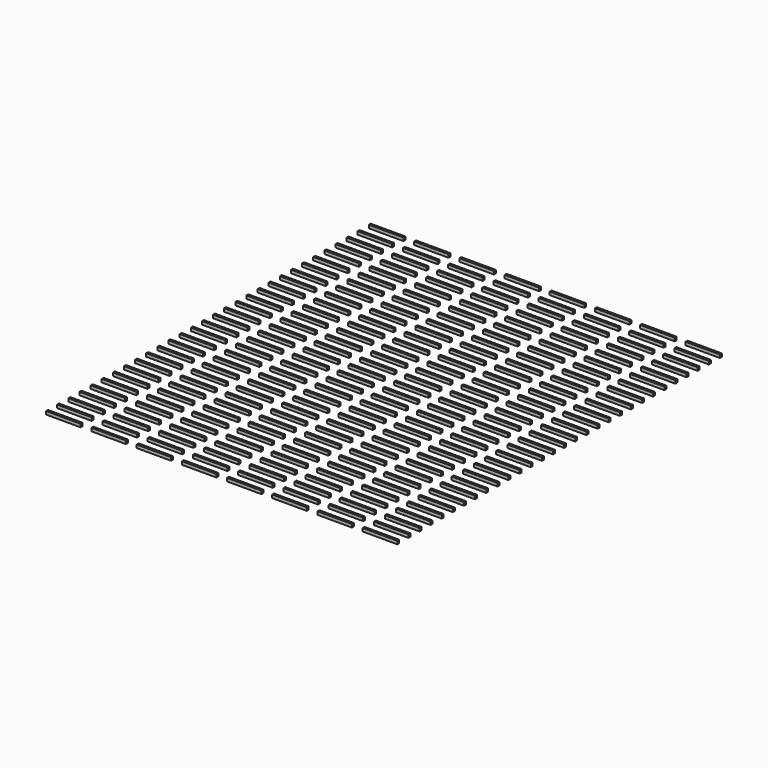
from build123d import *

# Parameters (mm, degrees)
F0_W     = 97.79
F0_H     = 6.858
F1_DEPTH = 8.89


with BuildPart() as f1:
    # F0 (on Top) → F1 (new body)
    with BuildSketch(Plane.XY):
        with Locations((-55.594578, 62.889342)):
            Rectangle(F0_W, F0_H)
        with Locations((-55.594578, 102.259342)):
            Rectangle(F0_W, F0_H)
        with Locations((-55.594578, 141.629342)):
            Rectangle(F0_W, F0_H)
        with Locations((-55.594578, 180.999342)):
            Rectangle(F0_W, F0_H)
        with Locations((-55.594578, 220.369342)):
            Rectangle(F0_W, F0_H)
        with Locations((-55.594578, 259.739342)):
            Rectangle(F0_W, F0_H)
        with Locations((-55.594578, 299.109342)):
            Rectangle(F0_W, F0_H)
        with Locations((-55.594578, 338.479342)):
            Rectangle(F0_W, F0_H)
        with Locations((-55.594578, 377.849342)):
            Rectangle(F0_W, F0_H)
        with Locations((-55.594578, 417.219342)):
            Rectangle(F0_W, F0_H)
        with Locations((-55.594578, 456.589342)):
            Rectangle(F0_W, F0_H)
        with Locations((-55.594578, 495.959342)):
            Rectangle(F0_W, F0_H)
        with Locations((-55.594578, 535.329342)):
            Rectangle(F0_W, F0_H)
        with Locations((-55.594578, 574.699342)):
            Rectangle(F0_W, F0_H)
        with Locations((-55.594578, 614.069342)):
            Rectangle(F0_W, F0_H)
        with Locations((-55.594578, 653.439342)):
            Rectangle(F0_W, F0_H)
        with Locations((-55.594578, 692.809342)):
            Rectangle(F0_W, F0_H)
        with Locations((-55.594578, 732.179342)):
            Rectangle(F0_W, F0_H)
        with Locations((-55.594578, 771.549342)):
            Rectangle(F0_W, F0_H)
        with Locations((-55.594578, 810.919342)):
            Rectangle(F0_W, F0_H)
        with Locations((-55.594578, 850.289342)):
            Rectangle(F0_W, F0_H)
        with Locations((-55.594578, 889.659342)):
            Rectangle(F0_W, F0_H)
        with Locations((-55.594578, 929.029342)):
            Rectangle(F0_W, F0_H)
        with Locations((-55.594578, 968.399342)):
            Rectangle(F0_W, F0_H)
        with Locations((-55.594578, 1007.769342)):
            Rectangle(F0_W, F0_H)
        with Locations((-55.594578, 1047.139342)):
            Rectangle(F0_W, F0_H)
        with Locations((-55.594578, 1086.509342)):
            Rectangle(F0_W, F0_H)
        with Locations((-55.594578, 1125.879342)):
            Rectangle(F0_W, F0_H)
        with Locations((-55.594578, 1165.249342)):
            Rectangle(F0_W, F0_H)
        with Locations((-55.594578, 1204.619342)):
            Rectangle(F0_W, F0_H)
        with Locations((72.421422, 62.889342)):
            Rectangle(F0_W, F0_H)
        with Locations((72.421422, 102.259342)):
            Rectangle(F0_W, F0_H)
        with Locations((72.421422, 141.629342)):
            Rectangle(F0_W, F0_H)
        with Locations((72.421422, 180.999342)):
            Rectangle(F0_W, F0_H)
        with Locations((72.421422, 220.369342)):
            Rectangle(F0_W, F0_H)
        with Locations((72.421422, 259.739342)):
            Rectangle(F0_W, F0_H)
        with Locations((72.421422, 299.109342)):
            Rectangle(F0_W, F0_H)
        with Locations((72.421422, 338.479342)):
            Rectangle(F0_W, F0_H)
        with Locations((72.421422, 377.849342)):
            Rectangle(F0_W, F0_H)
        with Locations((72.421422, 417.219342)):
            Rectangle(F0_W, F0_H)
        with Locations((72.421422, 456.589342)):
            Rectangle(F0_W, F0_H)
        with Locations((72.421422, 495.959342)):
            Rectangle(F0_W, F0_H)
        with Locations((72.421422, 535.329342)):
            Rectangle(F0_W, F0_H)
        with Locations((72.421422, 574.699342)):
            Rectangle(F0_W, F0_H)
        with Locations((72.421422, 614.069342)):
            Rectangle(F0_W, F0_H)
        with Locations((72.421422, 653.439342)):
            Rectangle(F0_W, F0_H)
        with Locations((72.421422, 692.809342)):
            Rectangle(F0_W, F0_H)
        with Locations((72.421422, 732.179342)):
            Rectangle(F0_W, F0_H)
        with Locations((72.421422, 771.549342)):
            Rectangle(F0_W, F0_H)
        with Locations((72.421422, 810.919342)):
            Rectangle(F0_W, F0_H)
        with Locations((72.421422, 850.289342)):
            Rectangle(F0_W, F0_H)
        with Locations((72.421422, 889.659342)):
            Rectangle(F0_W, F0_H)
        with Locations((72.421422, 929.029342)):
            Rectangle(F0_W, F0_H)
        with Locations((72.421422, 968.399342)):
            Rectangle(F0_W, F0_H)
        with Locations((72.421422, 1007.769342)):
            Rectangle(F0_W, F0_H)
        with Locations((72.421422, 1047.139342)):
            Rectangle(F0_W, F0_H)
        with Locations((72.421422, 1086.509342)):
            Rectangle(F0_W, F0_H)
        with Locations((72.421422, 1125.879342)):
            Rectangle(F0_W, F0_H)
        with Locations((72.421422, 1165.249342)):
            Rectangle(F0_W, F0_H)
        with Locations((72.421422, 1204.619342)):
            Rectangle(F0_W, F0_H)
        with Locations((200.437422, 62.889342)):
            Rectangle(F0_W, F0_H)
        with Locations((200.437422, 102.259342)):
            Rectangle(F0_W, F0_H)
        with Locations((200.437422, 141.629342)):
            Rectangle(F0_W, F0_H)
        with Locations((200.437422, 180.999342)):
            Rectangle(F0_W, F0_H)
        with Locations((200.437422, 220.369342)):
            Rectangle(F0_W, F0_H)
        with Locations((200.437422, 259.739342)):
            Rectangle(F0_W, F0_H)
        with Locations((200.437422, 299.109342)):
            Rectangle(F0_W, F0_H)
        with Locations((200.437422, 338.479342)):
            Rectangle(F0_W, F0_H)
        with Locations((200.437422, 377.849342)):
            Rectangle(F0_W, F0_H)
        with Locations((200.437422, 417.219342)):
            Rectangle(F0_W, F0_H)
        with Locations((200.437422, 456.589342)):
            Rectangle(F0_W, F0_H)
        with Locations((200.437422, 495.959342)):
            Rectangle(F0_W, F0_H)
        with Locations((200.437422, 535.329342)):
            Rectangle(F0_W, F0_H)
        with Locations((200.437422, 574.699342)):
            Rectangle(F0_W, F0_H)
        with Locations((200.437422, 614.069342)):
            Rectangle(F0_W, F0_H)
        with Locations((200.437422, 653.439342)):
            Rectangle(F0_W, F0_H)
        with Locations((200.437422, 692.809342)):
            Rectangle(F0_W, F0_H)
        with Locations((200.437422, 732.179342)):
            Rectangle(F0_W, F0_H)
        with Locations((200.437422, 771.549342)):
            Rectangle(F0_W, F0_H)
        with Locations((200.437422, 810.919342)):
            Rectangle(F0_W, F0_H)
        with Locations((200.437422, 850.289342)):
            Rectangle(F0_W, F0_H)
        with Locations((200.437422, 889.659342)):
            Rectangle(F0_W, F0_H)
        with Locations((200.437422, 929.029342)):
            Rectangle(F0_W, F0_H)
        with Locations((200.437422, 968.399342)):
            Rectangle(F0_W, F0_H)
        with Locations((200.437422, 1007.769342)):
            Rectangle(F0_W, F0_H)
        with Locations((200.437422, 1047.139342)):
            Rectangle(F0_W, F0_H)
        with Locations((200.437422, 1086.509342)):
            Rectangle(F0_W, F0_H)
        with Locations((200.437422, 1125.879342)):
            Rectangle(F0_W, F0_H)
        with Locations((200.437422, 1165.249342)):
            Rectangle(F0_W, F0_H)
        with Locations((200.437422, 1204.619342)):
            Rectangle(F0_W, F0_H)
        with Locations((328.453422, 62.889342)):
            Rectangle(F0_W, F0_H)
        with Locations((328.453422, 102.259342)):
            Rectangle(F0_W, F0_H)
        with Locations((328.453422, 141.629342)):
            Rectangle(F0_W, F0_H)
        with Locations((328.453422, 180.999342)):
            Rectangle(F0_W, F0_H)
        with Locations((328.453422, 220.369342)):
            Rectangle(F0_W, F0_H)
        with Locations((328.453422, 259.739342)):
            Rectangle(F0_W, F0_H)
        with Locations((328.453422, 299.109342)):
            Rectangle(F0_W, F0_H)
        with Locations((328.453422, 338.479342)):
            Rectangle(F0_W, F0_H)
        with Locations((328.453422, 377.849342)):
            Rectangle(F0_W, F0_H)
        with Locations((328.453422, 417.219342)):
            Rectangle(F0_W, F0_H)
        with Locations((328.453422, 456.589342)):
            Rectangle(F0_W, F0_H)
        with Locations((328.453422, 495.959342)):
            Rectangle(F0_W, F0_H)
        with Locations((328.453422, 535.329342)):
            Rectangle(F0_W, F0_H)
        with Locations((328.453422, 574.699342)):
            Rectangle(F0_W, F0_H)
        with Locations((328.453422, 614.069342)):
            Rectangle(F0_W, F0_H)
        with Locations((328.453422, 653.439342)):
            Rectangle(F0_W, F0_H)
        with Locations((328.453422, 692.809342)):
            Rectangle(F0_W, F0_H)
        with Locations((328.453422, 732.179342)):
            Rectangle(F0_W, F0_H)
        with Locations((328.453422, 771.549342)):
            Rectangle(F0_W, F0_H)
        with Locations((328.453422, 810.919342)):
            Rectangle(F0_W, F0_H)
        with Locations((328.453422, 850.289342)):
            Rectangle(F0_W, F0_H)
        with Locations((328.453422, 889.659342)):
            Rectangle(F0_W, F0_H)
        with Locations((328.453422, 929.029342)):
            Rectangle(F0_W, F0_H)
        with Locations((328.453422, 968.399342)):
            Rectangle(F0_W, F0_H)
        with Locations((328.453422, 1007.769342)):
            Rectangle(F0_W, F0_H)
        with Locations((328.453422, 1047.139342)):
            Rectangle(F0_W, F0_H)
        with Locations((328.453422, 1086.509342)):
            Rectangle(F0_W, F0_H)
        with Locations((328.453422, 1125.879342)):
            Rectangle(F0_W, F0_H)
        with Locations((328.453422, 1165.249342)):
            Rectangle(F0_W, F0_H)
        with Locations((328.453422, 1204.619342)):
            Rectangle(F0_W, F0_H)
        with Locations((456.469422, 62.889342)):
            Rectangle(F0_W, F0_H)
        with Locations((456.469422, 102.259342)):
            Rectangle(F0_W, F0_H)
        with Locations((456.469422, 141.629342)):
            Rectangle(F0_W, F0_H)
        with Locations((456.469422, 180.999342)):
            Rectangle(F0_W, F0_H)
        with Locations((456.469422, 220.369342)):
            Rectangle(F0_W, F0_H)
        with Locations((456.469422, 259.739342)):
            Rectangle(F0_W, F0_H)
        with Locations((456.469422, 299.109342)):
            Rectangle(F0_W, F0_H)
        with Locations((456.469422, 338.479342)):
            Rectangle(F0_W, F0_H)
        with Locations((456.469422, 377.849342)):
            Rectangle(F0_W, F0_H)
        with Locations((456.469422, 417.219342)):
            Rectangle(F0_W, F0_H)
        with Locations((456.469422, 456.589342)):
            Rectangle(F0_W, F0_H)
        with Locations((456.469422, 495.959342)):
            Rectangle(F0_W, F0_H)
        with Locations((456.469422, 535.329342)):
            Rectangle(F0_W, F0_H)
        with Locations((456.469422, 574.699342)):
            Rectangle(F0_W, F0_H)
        with Locations((456.469422, 614.069342)):
            Rectangle(F0_W, F0_H)
        with Locations((456.469422, 653.439342)):
            Rectangle(F0_W, F0_H)
        with Locations((456.469422, 692.809342)):
            Rectangle(F0_W, F0_H)
        with Locations((456.469422, 732.179342)):
            Rectangle(F0_W, F0_H)
        with Locations((456.469422, 771.549342)):
            Rectangle(F0_W, F0_H)
        with Locations((456.469422, 810.919342)):
            Rectangle(F0_W, F0_H)
        with Locations((456.469422, 850.289342)):
            Rectangle(F0_W, F0_H)
        with Locations((456.469422, 889.659342)):
            Rectangle(F0_W, F0_H)
        with Locations((456.469422, 929.029342)):
            Rectangle(F0_W, F0_H)
        with Locations((456.469422, 968.399342)):
            Rectangle(F0_W, F0_H)
        with Locations((456.469422, 1007.769342)):
            Rectangle(F0_W, F0_H)
        with Locations((456.469422, 1047.139342)):
            Rectangle(F0_W, F0_H)
        with Locations((456.469422, 1086.509342)):
            Rectangle(F0_W, F0_H)
        with Locations((456.469422, 1125.879342)):
            Rectangle(F0_W, F0_H)
        with Locations((456.469422, 1165.249342)):
            Rectangle(F0_W, F0_H)
        with Locations((456.469422, 1204.619342)):
            Rectangle(F0_W, F0_H)
        with Locations((584.485422, 62.889342)):
            Rectangle(F0_W, F0_H)
        with Locations((584.485422, 102.259342)):
            Rectangle(F0_W, F0_H)
        with Locations((584.485422, 141.629342)):
            Rectangle(F0_W, F0_H)
        with Locations((584.485422, 180.999342)):
            Rectangle(F0_W, F0_H)
        with Locations((584.485422, 220.369342)):
            Rectangle(F0_W, F0_H)
        with Locations((584.485422, 259.739342)):
            Rectangle(F0_W, F0_H)
        with Locations((584.485422, 299.109342)):
            Rectangle(F0_W, F0_H)
        with Locations((584.485422, 338.479342)):
            Rectangle(F0_W, F0_H)
        with Locations((584.485422, 377.849342)):
            Rectangle(F0_W, F0_H)
        with Locations((584.485422, 417.219342)):
            Rectangle(F0_W, F0_H)
        with Locations((584.485422, 456.589342)):
            Rectangle(F0_W, F0_H)
        with Locations((584.485422, 495.959342)):
            Rectangle(F0_W, F0_H)
        with Locations((584.485422, 535.329342)):
            Rectangle(F0_W, F0_H)
        with Locations((584.485422, 574.699342)):
            Rectangle(F0_W, F0_H)
        with Locations((584.485422, 614.069342)):
            Rectangle(F0_W, F0_H)
        with Locations((584.485422, 653.439342)):
            Rectangle(F0_W, F0_H)
        with Locations((584.485422, 692.809342)):
            Rectangle(F0_W, F0_H)
        with Locations((584.485422, 732.179342)):
            Rectangle(F0_W, F0_H)
        with Locations((584.485422, 771.549342)):
            Rectangle(F0_W, F0_H)
        with Locations((584.485422, 810.919342)):
            Rectangle(F0_W, F0_H)
        with Locations((584.485422, 850.289342)):
            Rectangle(F0_W, F0_H)
        with Locations((584.485422, 889.659342)):
            Rectangle(F0_W, F0_H)
        with Locations((584.485422, 929.029342)):
            Rectangle(F0_W, F0_H)
        with Locations((584.485422, 968.399342)):
            Rectangle(F0_W, F0_H)
        with Locations((584.485422, 1007.769342)):
            Rectangle(F0_W, F0_H)
        with Locations((584.485422, 1047.139342)):
            Rectangle(F0_W, F0_H)
        with Locations((584.485422, 1086.509342)):
            Rectangle(F0_W, F0_H)
        with Locations((584.485422, 1125.879342)):
            Rectangle(F0_W, F0_H)
        with Locations((584.485422, 1165.249342)):
            Rectangle(F0_W, F0_H)
        with Locations((584.485422, 1204.619342)):
            Rectangle(F0_W, F0_H)
        with Locations((712.501422, 62.889342)):
            Rectangle(F0_W, F0_H)
        with Locations((712.501422, 102.259342)):
            Rectangle(F0_W, F0_H)
        with Locations((712.501422, 141.629342)):
            Rectangle(F0_W, F0_H)
        with Locations((712.501422, 180.999342)):
            Rectangle(F0_W, F0_H)
        with Locations((712.501422, 220.369342)):
            Rectangle(F0_W, F0_H)
        with Locations((712.501422, 259.739342)):
            Rectangle(F0_W, F0_H)
        with Locations((712.501422, 299.109342)):
            Rectangle(F0_W, F0_H)
        with Locations((712.501422, 338.479342)):
            Rectangle(F0_W, F0_H)
        with Locations((712.501422, 377.849342)):
            Rectangle(F0_W, F0_H)
        with Locations((712.501422, 417.219342)):
            Rectangle(F0_W, F0_H)
        with Locations((712.501422, 456.589342)):
            Rectangle(F0_W, F0_H)
        with Locations((712.501422, 495.959342)):
            Rectangle(F0_W, F0_H)
        with Locations((712.501422, 535.329342)):
            Rectangle(F0_W, F0_H)
        with Locations((712.501422, 574.699342)):
            Rectangle(F0_W, F0_H)
        with Locations((712.501422, 614.069342)):
            Rectangle(F0_W, F0_H)
        with Locations((712.501422, 653.439342)):
            Rectangle(F0_W, F0_H)
        with Locations((712.501422, 692.809342)):
            Rectangle(F0_W, F0_H)
        with Locations((712.501422, 732.179342)):
            Rectangle(F0_W, F0_H)
        with Locations((712.501422, 771.549342)):
            Rectangle(F0_W, F0_H)
        with Locations((712.501422, 810.919342)):
            Rectangle(F0_W, F0_H)
        with Locations((712.501422, 850.289342)):
            Rectangle(F0_W, F0_H)
        with Locations((712.501422, 889.659342)):
            Rectangle(F0_W, F0_H)
        with Locations((712.501422, 929.029342)):
            Rectangle(F0_W, F0_H)
        with Locations((712.501422, 968.399342)):
            Rectangle(F0_W, F0_H)
        with Locations((712.501422, 1007.769342)):
            Rectangle(F0_W, F0_H)
        with Locations((712.501422, 1047.139342)):
            Rectangle(F0_W, F0_H)
        with Locations((712.501422, 1086.509342)):
            Rectangle(F0_W, F0_H)
        with Locations((712.501422, 1125.879342)):
            Rectangle(F0_W, F0_H)
        with Locations((712.501422, 1165.249342)):
            Rectangle(F0_W, F0_H)
        with Locations((712.501422, 1204.619342)):
            Rectangle(F0_W, F0_H)
        with Locations((840.517422, 62.889342)):
            Rectangle(F0_W, F0_H)
        with Locations((840.517422, 102.259342)):
            Rectangle(F0_W, F0_H)
        with Locations((840.517422, 141.629342)):
            Rectangle(F0_W, F0_H)
        with Locations((840.517422, 180.999342)):
            Rectangle(F0_W, F0_H)
        with Locations((840.517422, 220.369342)):
            Rectangle(F0_W, F0_H)
        with Locations((840.517422, 259.739342)):
            Rectangle(F0_W, F0_H)
        with Locations((840.517422, 299.109342)):
            Rectangle(F0_W, F0_H)
        with Locations((840.517422, 338.479342)):
            Rectangle(F0_W, F0_H)
        with Locations((840.517422, 377.849342)):
            Rectangle(F0_W, F0_H)
        with Locations((840.517422, 417.219342)):
            Rectangle(F0_W, F0_H)
        with Locations((840.517422, 456.589342)):
            Rectangle(F0_W, F0_H)
        with Locations((840.517422, 495.959342)):
            Rectangle(F0_W, F0_H)
        with Locations((840.517422, 535.329342)):
            Rectangle(F0_W, F0_H)
        with Locations((840.517422, 574.699342)):
            Rectangle(F0_W, F0_H)
        with Locations((840.517422, 614.069342)):
            Rectangle(F0_W, F0_H)
        with Locations((840.517422, 653.439342)):
            Rectangle(F0_W, F0_H)
        with Locations((840.517422, 692.809342)):
            Rectangle(F0_W, F0_H)
        with Locations((840.517422, 732.179342)):
            Rectangle(F0_W, F0_H)
        with Locations((840.517422, 771.549342)):
            Rectangle(F0_W, F0_H)
        with Locations((840.517422, 810.919342)):
            Rectangle(F0_W, F0_H)
        with Locations((840.517422, 850.289342)):
            Rectangle(F0_W, F0_H)
        with Locations((840.517422, 889.659342)):
            Rectangle(F0_W, F0_H)
        with Locations((840.517422, 929.029342)):
            Rectangle(F0_W, F0_H)
        with Locations((840.517422, 968.399342)):
            Rectangle(F0_W, F0_H)
        with Locations((840.517422, 1007.769342)):
            Rectangle(F0_W, F0_H)
        with Locations((840.517422, 1047.139342)):
            Rectangle(F0_W, F0_H)
        with Locations((840.517422, 1086.509342)):
            Rectangle(F0_W, F0_H)
        with Locations((840.517422, 1125.879342)):
            Rectangle(F0_W, F0_H)
        with Locations((840.517422, 1165.249342)):
            Rectangle(F0_W, F0_H)
        with Locations((840.517422, 1204.619342)):
            Rectangle(F0_W, F0_H)
    extrude(amount=F1_DEPTH)


solid = f1.part
